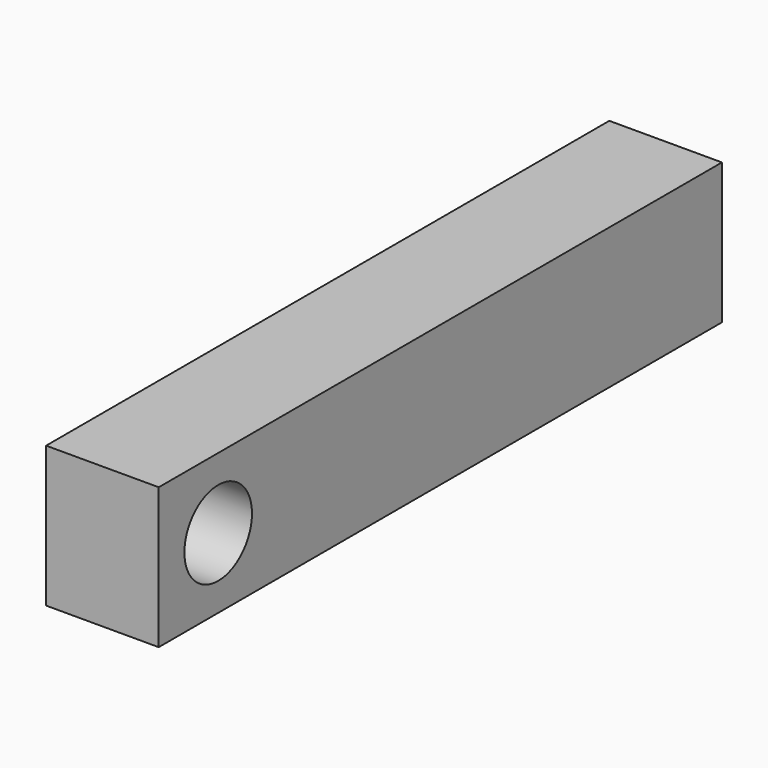
from build123d import *

# Parameters (mm, degrees)
SKETCH_R  = 3
PAD_DEPTH = 8


with BuildPart() as part:
    # Sketch → Pad (new body)
    with BuildSketch(Plane.YZ):
        Polygon((-5.277262, 5.001455), (44.722736, 4.987671), (44.719979, -5.012328), (-5.280019, -4.998545), align=None)
        Circle(SKETCH_R, mode=Mode.SUBTRACT)
    extrude(amount=PAD_DEPTH)


solid = part.part
